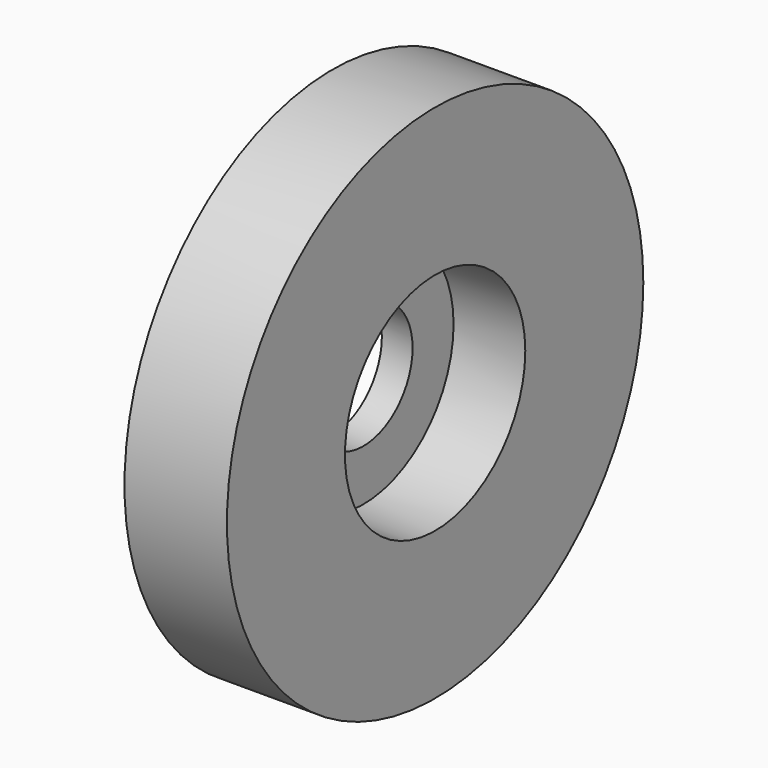
from build123d import *

# Parameters (mm, degrees)
F0_R     = 25.4
F0_R_2   = 6
F1_DEPTH = 10
F2_R     = 11
F2_R_2   = 6
F3_DEPTH = 7


with BuildPart() as f1:
    # F0 (on Right) → F1 (new body)
    with BuildSketch(Plane.YZ):
        Circle(F0_R)
        Circle(F0_R_2, mode=Mode.SUBTRACT)
    extrude(amount=F1_DEPTH)

    # F2 (on face) → F3 (cut)
    with BuildSketch(Plane.YZ.offset(10)):
        Circle(F2_R)
        Circle(F2_R_2, mode=Mode.SUBTRACT)
    extrude(amount=-F3_DEPTH, mode=Mode.SUBTRACT)


solid = f1.part
